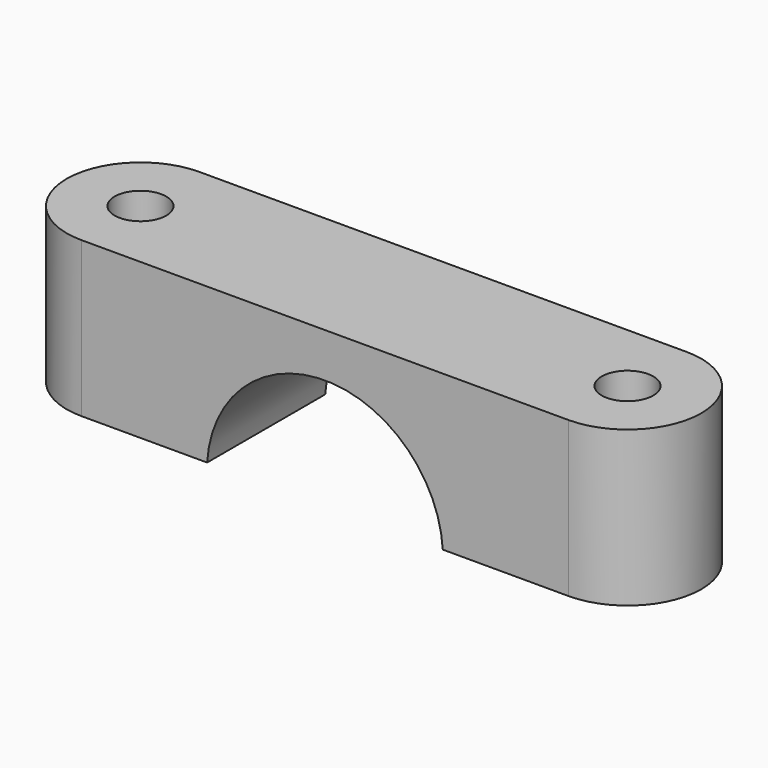
from build123d import *

# Parameters (mm, degrees)
F1_DEPTH = 11
F3_DEPTH = 12.5
F4_R     = 1.75
F5_DEPTH = 25
F6_W     = 45
F6_H     = 1
F7_DEPTH = 12.5


with BuildPart() as f1:
    # F0 (on Top) → F1 (new body)
    with BuildSketch(Plane.XY):
        with BuildLine():
            Line((16.5, 5), (-16.5, 5))
            ThreePointArc((-16.5, 5), (-21.5, 0), (-16.5, -5))
            Line((-16.5, -5), (16.5, -5))
            ThreePointArc((16.5, -5), (21.5, 0), (16.5, 5))
        make_face()
    extrude(amount=F1_DEPTH)

    # F2 (on Front) → F3 (cut, symmetric)
    with BuildSketch(Plane.XZ):
        with BuildLine():
            Line((-8, 0), (8, 0))
            ThreePointArc((8, 0), (0, 8), (-8, 0))
        make_face()
    extrude(amount=F3_DEPTH, both=True, mode=Mode.SUBTRACT)

    # F4 (on face) → F5 (cut)
    with BuildSketch(Plane.XY.offset(11)):
        with Locations((-16.5, 0)):
            Circle(F4_R)
        with Locations((16.5, 0)):
            Circle(F4_R)
    extrude(amount=-F5_DEPTH, mode=Mode.SUBTRACT)

    # F6 (on Front) → F7 (cut, symmetric)
    with BuildSketch(Plane.XZ):
        Rectangle(F6_W, F6_H)
    extrude(amount=F7_DEPTH, both=True, mode=Mode.SUBTRACT)


solid = f1.part
